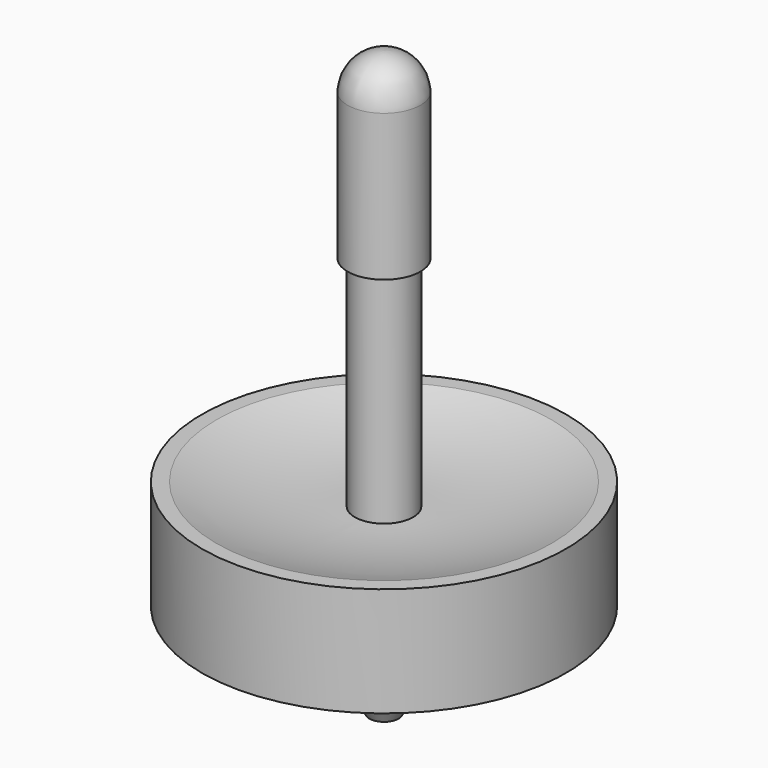
from build123d import *


with BuildPart() as f1:
    # F0 (on Right) → F1 (revolve)
    with BuildSketch(Plane.YZ):
        with BuildLine():
            ThreePointArc((-2, 0), (-1.440759, 1.462152), (0, 2.074403))
            Line((0, 2.074403), (0, 13))
            Line((0, 13), (0, 55))
            Line((0, 55), (0, 80))
            ThreePointArc((0, 80), (-3.499494, 78.57191), (-5, 75.102849))
            Line((-5, 75.102849), (-5, 74.895948))
            Line((-5, 74.895948), (-5, 55))
            Line((-5, 55), (-4, 55))
            Line((-4, 55), (-4, 25))
            ThreePointArc((-4, 25), (-13.639585, 25.615965), (-23, 28))
            Line((-23, 28), (-25, 28))
            Line((-25, 28), (-25, 25))
            Line((-25, 25), (-25, 13))
            Line((-25, 13), (-23, 13))
            ThreePointArc((-23, 13), (-16.252777, 14.222011), (-9.505553, 13))
            Line((-9.505553, 13), (-2, 0))
        make_face()
    revolve(axis=Axis((0, 0, 27.5), (0, 0, 1)))


solid = f1.part
